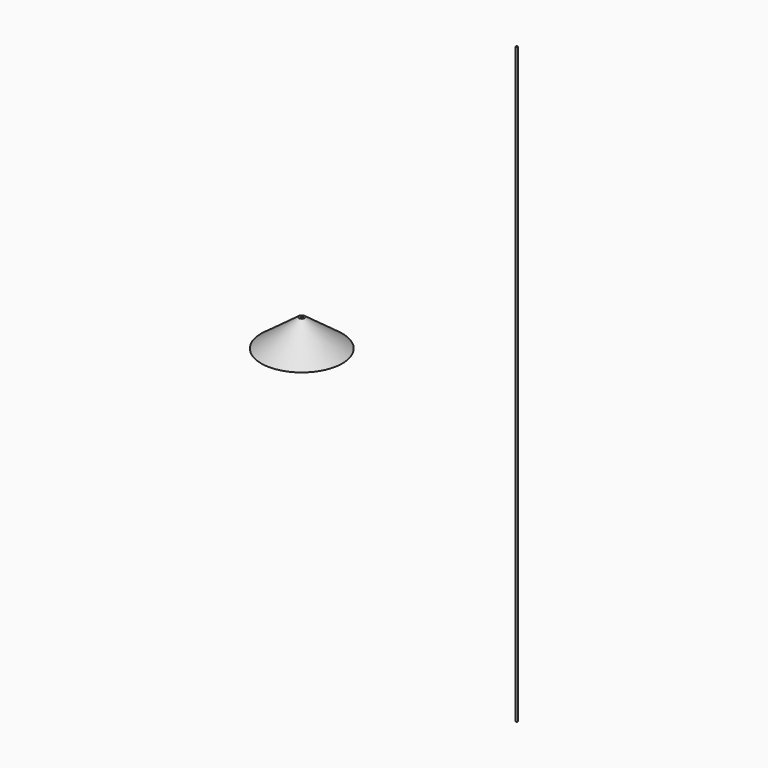
from build123d import *

# Parameters (mm, degrees)
F4_W = 5
F4_H = 3000
F6_W = 4
F6_H = 3000.007538


with BuildPart() as f1:
    # F0 (on Front) → F1 (revolve)
    with BuildSketch(Plane.XZ):
        Polygon((-205, 0), (0, 0), (0, 140), (-15, 140), align=None)
    revolve(axis=Axis((0, 0, 70), (0, 0, 1)))

    # F2 (on Front) → F3 (revolve, cut)
    with BuildSketch(Plane.XZ):
        Polygon((-5, 140), (-200, 0), (0, 0), (0, 140), align=None)
    revolve(axis=Axis((0, 0, 70), (0, 0, -1)), mode=Mode.SUBTRACT)


with BuildPart() as f5:
    # F4 (on Front) → F5 (revolve)
    with BuildSketch(Plane.XZ):
        with Locations((1088.699011, 195.366355)):
            Rectangle(F4_W, F4_H)
    revolve(axis=Axis((1086.199011, 0, 195.366355), (0, 0, 1)))

    # F6 (on Front) → F7 (revolve, cut)
    with BuildSketch(Plane.XZ):
        with Locations((1088.199011, 195.370124)):
            Rectangle(F6_W, F6_H)
    revolve(axis=Axis((1086.199011, 0, 195.370124), (0, 0, -1)), mode=Mode.SUBTRACT)


solid = Compound([f1.part, f5.part])
